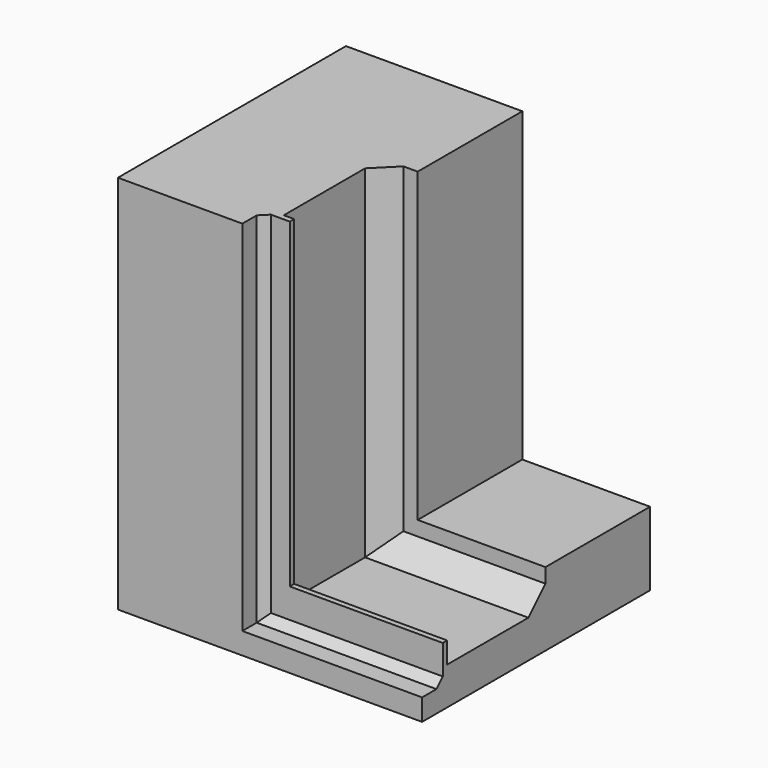
from build123d import *

# Parameters (mm, degrees)
F1_DEPTH = 25
F3_DEPTH = 100
F4_DEPTH = 100


with BuildPart() as f1:
    # F0 (on Top) → F1 (new body)
    with BuildSketch(Plane.XY):
        Polygon((58, 0), (0, 0), (0, -93.7), (40.9, -93.7), (40.9, -87.8), (43.5, -85.2), (49.7, -85.2), (49.7, -83.4), (46.3, -83.4), (46.3, -50), (53.3, -43), (58, -43), align=None)
    extrude(amount=F1_DEPTH)

    # F3 (add): a face of the model
    f3_faces = [f1.faces().sort_by_distance(p)[0] for p in [
        (26.1504271655, -43.8715742384, 25),
    ]]
    extrude(f3_faces, amount=F3_DEPTH)

    # F2 (on face) → F4 (join)
    with BuildSketch(Plane(origin=(0, 0, 0), x_dir=(0, -1, 0), z_dir=(-1, 0, 0))):
        Polygon((0, 24.2), (0, 0), (93.7, 0), (93.7, 7.1), (87.8, 7.1), (85.2, 9.7), (85.2, 19.4), (83.4, 19.4), (83.4, 12.4), (50, 12.4), (43, 19.4), (43, 24.2), align=None)
    extrude(amount=-F4_DEPTH)


solid = f1.part
